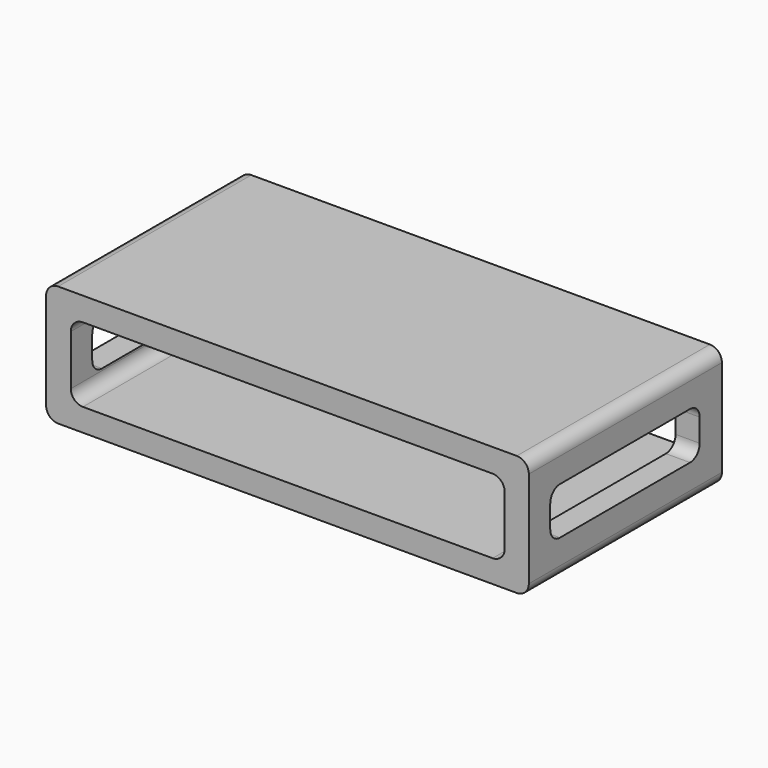
from build123d import *

# Parameters (mm, degrees)
F0_W     = 2000
F0_H     = 500
F1_DEPTH = 1000
F2_W     = 1797.4397540092
F2_H     = 308.4638491273
F3_DEPTH = 1000.001
F4_R     = 50
F5_W     = 773.9472016692
F5_H     = 195.3730471432
F6_DEPTH = 2000.001
F7_R     = 50
F8_SCALE = 0.5


with BuildPart() as f1:
    # F0 (on Front) → F1 (new body)
    with BuildSketch(Plane.XZ):
        with Locations((0, -36.5384618746)):
            Rectangle(F0_W, F0_H)
    extrude(amount=F1_DEPTH)

    # F2 (on face) → F3 (cut, through all)
    with BuildSketch(Plane.XZ.offset(1000)):
        with Locations((1.2095868587, -38.0935780704)):
            Rectangle(F2_W, F2_H)
    extrude(amount=-F3_DEPTH, mode=Mode.SUBTRACT)

    # F4
    f4_edges = [f1.edges().sort_by_distance(p)[0] for p in [
        (1000, -500, 213.461538),
        (1000, -500, -286.538462),
        (-1000, -500, 213.461538),
        (-1000, -500, -286.538462),
        (-897.51029, -500, 116.138346),
        (-897.51029, -500, -192.325503),
        (899.929464, -500, 116.138346),
        (899.929464, -500, -192.325503),
    ]]
    fillet(f4_edges, radius=F4_R)

    # F5 (on face) → F6 (cut, through all)
    with BuildSketch(Plane(origin=(-1000, 0, 0), x_dir=(0, -1, 0), z_dir=(-1, 0, 0))):
        with Locations((502.0684786141, -36.3542791456)):
            Rectangle(F5_W, F5_H)
    extrude(amount=-F6_DEPTH, mode=Mode.SUBTRACT)

    # F7
    f7_edges = [f1.edges().sort_by_distance(p)[0] for p in [
        (949.964732, -115.094878, 61.332244),
        (949.964732, -889.042079, 61.332244),
        (949.964732, -115.094878, -134.040803),
        (949.964732, -889.042079, -134.040803),
        (-948.755145, -889.042079, -134.040803),
        (-948.755145, -889.042079, 61.332244),
        (-948.755145, -115.094878, 61.332244),
        (-948.755145, -115.094878, -134.040803),
    ]]
    fillet(f7_edges, radius=F7_R)


with BuildPart() as f1_1:
    # F8: moved
    add(f1.part.scale(F8_SCALE))


solid = f1_1.part
